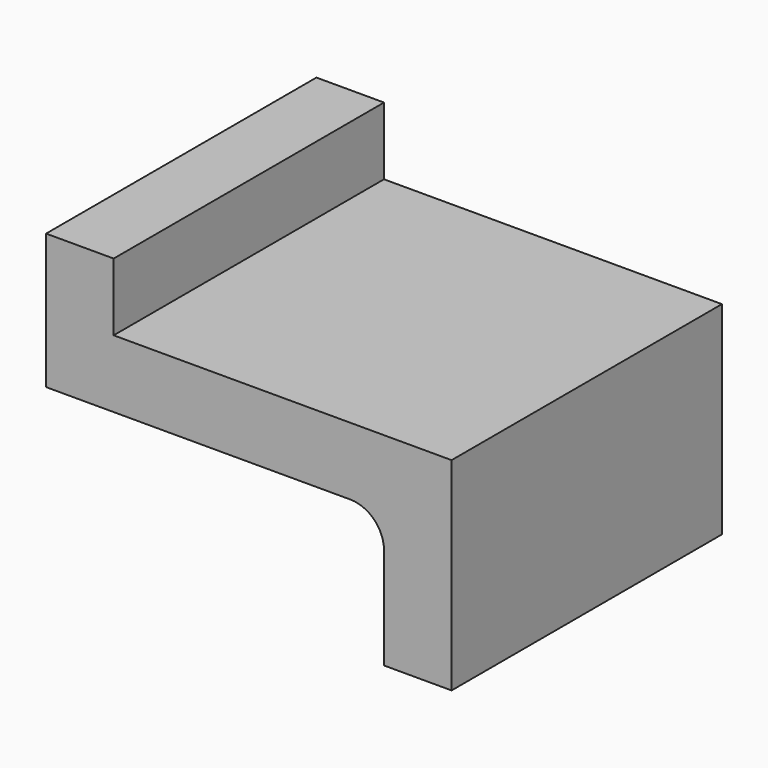
from build123d import *

# Parameters (mm, degrees)
F1_DEPTH = 25


with BuildPart() as f1:
    # F0 (on Front) → F1 (new body)
    with BuildSketch(Plane.XZ):
        with BuildLine():
            Line((-2.626851, 0), (-2.5, 0))
            ThreePointArc((-2.5, 0), (-0.732233, -0.732233), (0, -2.5))
            Line((0, -2.5), (0, -10))
            Line((0, -10), (5, -10))
            Line((5, -10), (5, 5))
            Line((5, 5), (-20, 5))
            Line((-20, 5), (-20, 10))
            Line((-20, 10), (-25, 10))
            Line((-25, 10), (-25, 0))
            Line((-25, 0), (-2.626851, 0))
        make_face()
    extrude(amount=F1_DEPTH)


solid = f1.part
